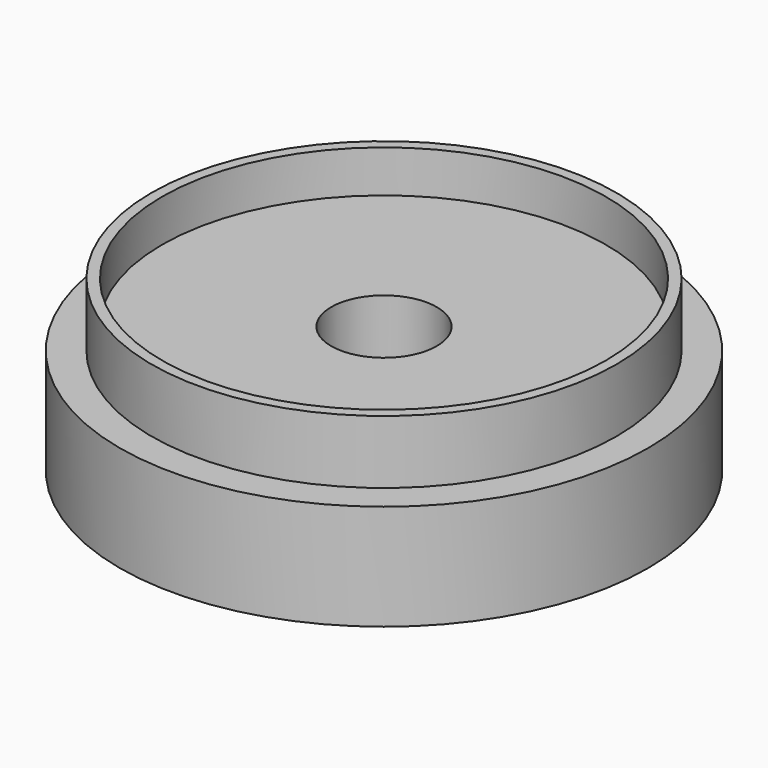
from build123d import *

# Parameters (mm, degrees)
F0_R     = 12.5
F0_R_2   = 11
F1_DEPTH = 5
F0_R_3   = 10.5
F2_DEPTH = 8
F3_DEPTH = 6
F4_D     = 5


with BuildPart() as f1:
    # F0 (on Top) → F1 (new body)
    with BuildSketch(Plane.XY):
        Circle(F0_R)
        Circle(F0_R_2, mode=Mode.SUBTRACT)
    extrude(amount=F1_DEPTH)

    # F0 (on Top) → F2 (join)
    with BuildSketch(Plane.XY):
        Circle(F0_R_2)
        Circle(F0_R_3, mode=Mode.SUBTRACT)
    extrude(amount=F2_DEPTH)

    # F0 (on Top) → F3 (join)
    with BuildSketch(Plane.XY):
        Circle(F0_R_3)
    extrude(amount=F3_DEPTH)

    # F4 (through all)
    with Locations(Plane(origin=(0, 0, 0), x_dir=(1, 0, 0), z_dir=(0, 0, -1))):
        with Locations((0, 0)):
            Hole(F4_D / 2)


solid = f1.part
